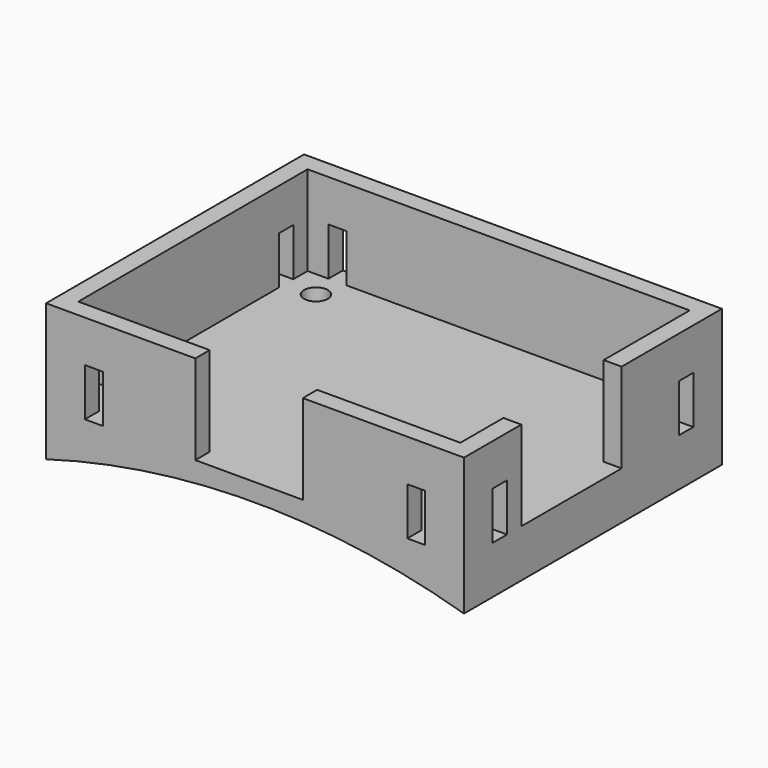
from build123d import *

# Parameters (mm, degrees)
F0_W      = 70
F0_H      = 54
F1_DEPTH  = 23
F3_DEPTH  = 60
F4_W      = 64
F4_H      = 48
F5_DEPTH  = 15
F6_R      = 2
F7_DEPTH  = 25
F9_DEPTH  = 25
F11_DEPTH = 25
F12_W     = 1.5
F12_H     = 36
F12_W_2   = 13.280427
F12_H_2   = 3
F12_W_3   = 51
F12_W_4   = 12.749882
F12_W_5   = 3
F12_H_3   = 49.144776
F12_H_4   = 1.5
F12_H_5   = 10.144776
F12_W_6   = 67.280427
F12_W_7   = 66.749882
F13_DEPTH = 8


with BuildPart() as f1:
    # F0 (on Top) → F1 (new body)
    with BuildSketch(Plane.XY):
        Rectangle(F0_W, F0_H)
    extrude(amount=-F1_DEPTH)

    # F2 (on face) → F3 (cut)
    with BuildSketch(Plane.XZ.offset(27)):
        with BuildLine():
            Line((-35, -23), (35, -23))
            ThreePointArc((35, -23), (0, -18), (-35, -23))
        make_face()
    extrude(amount=-F3_DEPTH, mode=Mode.SUBTRACT)

    # F4 (on face) → F5 (cut)
    with BuildSketch(Plane.XY):
        Rectangle(F4_W, F4_H)
    extrude(amount=-F5_DEPTH, mode=Mode.SUBTRACT)

    # F6 (on face) → F7 (cut)
    with BuildSketch(Plane.XY.offset(-15)):
        with Locations((-27, 19.5)):
            Circle(F6_R)
        with Locations((-27, -19.5)):
            Circle(F6_R)
        with Locations((27, -19.5)):
            Circle(F6_R)
        with Locations((27, 19.5)):
            Circle(F6_R)
    extrude(amount=-F7_DEPTH, mode=Mode.SUBTRACT)

    # F8 (on face) → F9 (cut)
    with BuildSketch(Plane.XY.offset(-15)):
        Polygon((37, 6), (32, 6), (32, -15), (38.883269, -15), (38.883269, 6), align=None)
    extrude(amount=F9_DEPTH, mode=Mode.SUBTRACT)

    # F10 (on face) → F11 (cut)
    with BuildSketch(Plane.XY.offset(-15)):
        Polygon((8, -24), (-10, -24), (-10, -27.841958), (-10, -32.821599), (8, -32.821599), align=None)
    extrude(amount=F11_DEPTH, mode=Mode.SUBTRACT)

    # F12 (on face) → F13 (cut)
    with BuildSketch(Plane.XY.offset(-15)):
        with Locations((27.75, 0)):
            Rectangle(F12_W, F12_H)
        Polygon((25.5, 18), (27, 18), (28.5, 18), (28.5, 21), (25.5, 21), align=None)
        with Locations((35.140214, 19.5)):
            Rectangle(F12_W_2, F12_H_2)
        with Locations((0, 19.5)):
            Rectangle(F12_W_3, F12_H_2)
        with Locations((34.874941, -19.5)):
            Rectangle(F12_W_4, F12_H_2)
        with Locations((27, 45.572388)):
            Rectangle(F12_W_5, F12_H_3)
        Polygon((-27, 18), (-25.5, 18), (-25.5, 21), (-28.5, 21), (-28.5, 18), align=None)
        with Locations((0, -20.25)):
            Rectangle(F12_W_3, F12_H_4)
        with Locations((27, -26.072388)):
            Rectangle(F12_W_5, F12_H_5)
        with Locations((-27, 45.572388)):
            Rectangle(F12_W_5, F12_H_3)
        with Locations((-27.75, 0)):
            Rectangle(F12_W, F12_H)
        with Locations((-62.140213, 19.5)):
            Rectangle(F12_W_6, F12_H_2)
        with Locations((-27, -26.072388)):
            Rectangle(F12_W_5, F12_H_5)
        with Locations((-61.874941, -19.5)):
            Rectangle(F12_W_7, F12_H_2)
    extrude(amount=F13_DEPTH, mode=Mode.SUBTRACT)


solid = f1.part
